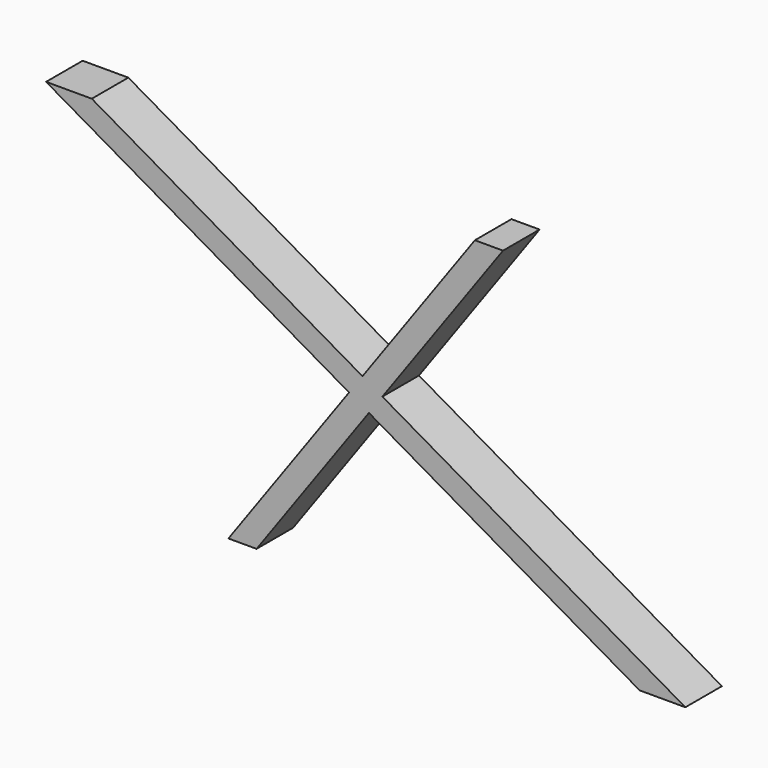
from build123d import *

# Parameters (mm, degrees)
F1_DEPTH = 50.8


with BuildPart() as f1:
    # F0 (on Front) → F1 (new body)
    with BuildSketch(Plane.XZ):
        Polygon((134.1385716849, 186.5196026025), (0, 0), (31.28636535, 0), (156.2457848886, 173.7559971083), align=None)
        Polygon((149.0428574276, 207.2440028917), (134.1385716849, 186.5196026025), (156.2457848886, 173.7559971083), (171.1500706314, 194.4803973975), align=None)
        Polygon((-202.7113576837, 381), (134.1385716849, 186.5196026025), (149.0428574276, 207.2440028917), (-151.9113576837, 381), align=None)
        Polygon((171.1500706314, 194.4803973975), (156.2457848886, 173.7559971083), (457.2, 0), (508, 0), align=None)
        Polygon((274.0022769663, 381), (149.0428574276, 207.2440028917), (171.1500706314, 194.4803973975), (305.2886423163, 381), align=None)
    extrude(amount=F1_DEPTH)


solid = f1.part
